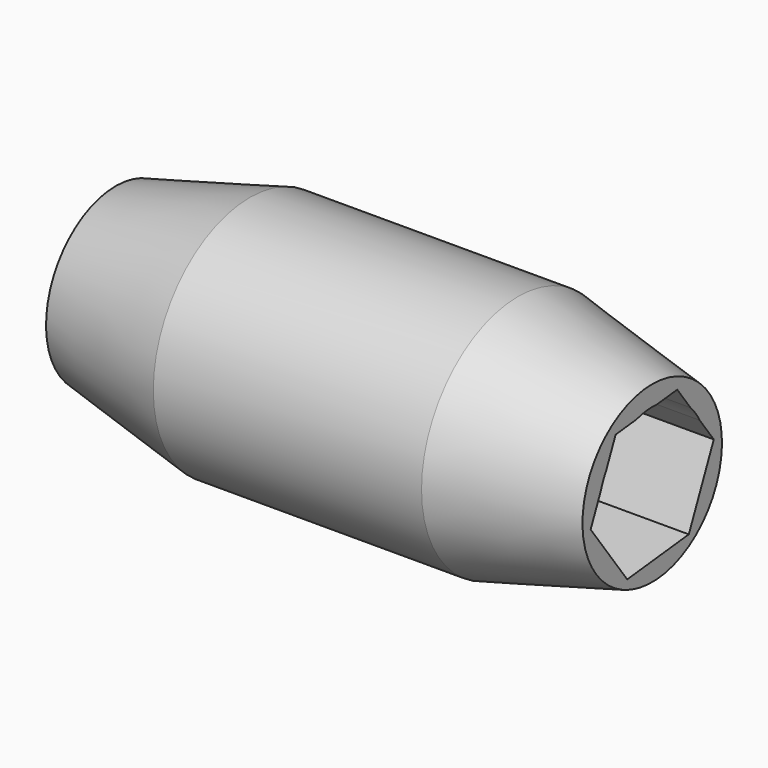
from build123d import *

# Parameters (mm, degrees)
F3_DEPTH      = 38.1
F3_DEPTH_BACK = 38.1


with BuildPart() as f2:
    # F1 (on Front) → F2 (revolve)
    with BuildSketch(Plane.XZ):
        Polygon((-25.4309553104, 8.369750945), (-25.4309553104, 6.464750945), (25.3690446896, 6.464750945), (25.3690446896, 8.369750945), (12.6690446896, 11.544750945), (-12.7309553104, 11.544750945), align=None)
    revolve(axis=Axis((-0.4450748034, 0, 0.114750945), (1, 0, 0)))

    # F0 (on Right) → F3 (cut, two sides)
    with BuildSketch(Plane.YZ) as f3_sk:
        Polygon((7.2894281006, 0.7921939781), (2.9586539406, 6.7089269033), (-4.3307741601, 5.9167329252), (-7.2894281006, -0.7921939781), (-2.9586539406, -6.7089269033), (4.3307741601, -5.9167329252), align=None)
    extrude(amount=-F3_DEPTH, mode=Mode.SUBTRACT)
    extrude(f3_sk.sketch, amount=F3_DEPTH_BACK, mode=Mode.SUBTRACT)


solid = f2.part
